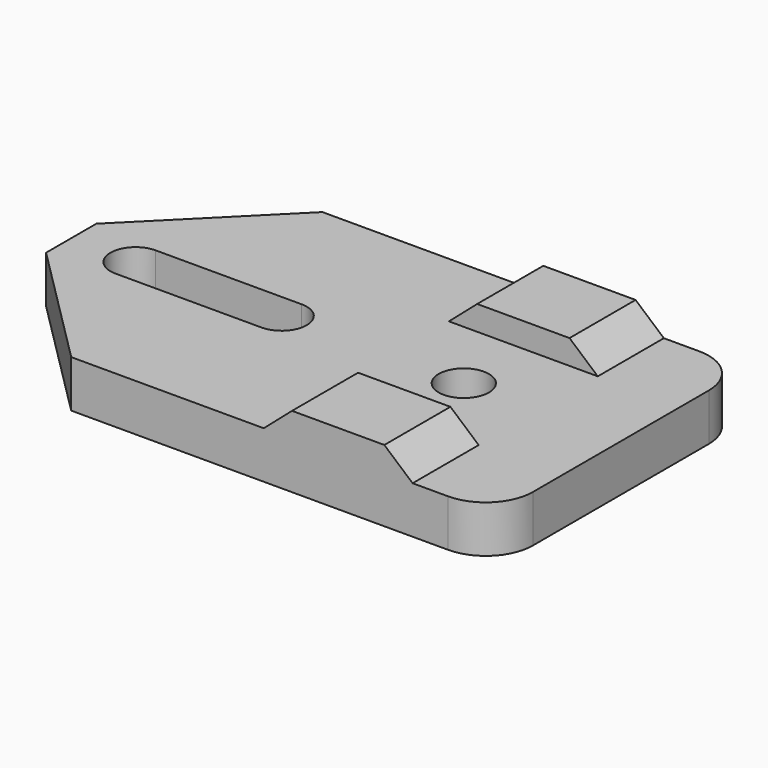
from build123d import *

# Parameters (mm, degrees)
SKETCH_R     = 1.6
PAD_DEPTH    = 3
PAD001_DEPTH = 20
SKETCH002_W  = 9.48
SKETCH002_H  = 9.48
POCKET_DEPTH = 1.56
CHAMFER_SIZE = 8
FILLET_R     = 3


with BuildPart() as part:
    # Sketch → Pad (new body)
    with BuildSketch(Plane.XY):
        Polygon((-10, 10), (10, 10), (10, -10), (-10, -10), (-25, -10), (-25, 10), align=None)
        Circle(SKETCH_R, mode=Mode.SUBTRACT)
        with BuildLine():
            ThreePointArc((-20.9, 1.6), (-22.5, 0), (-20.9, -1.6))
            Line((-20.9, -1.6), (-11.6, -1.6))
            ThreePointArc((-11.6, -1.6), (-10, 0), (-11.6, 1.6))
            Line((-11.6, 1.6), (-20.9, 1.6))
        make_face(mode=Mode.SUBTRACT)
    extrude(amount=PAD_DEPTH)

    # Sketch001 (on Face3 of Pad) → Pad001 (join)
    with BuildSketch(Plane.XZ.offset(10)):
        Polygon((-4.74, 3), (4.74, 3), (2.94, 4.56), (-2.94, 4.56), align=None)
    extrude(amount=-PAD001_DEPTH)

    # Sketch002 (on Face18 of Pad001) → Pocket (cut)
    with BuildSketch(Plane.XY.offset(4.56)):
        Rectangle(SKETCH002_W, SKETCH002_H)
    extrude(amount=-POCKET_DEPTH, mode=Mode.SUBTRACT)

    # Chamfer
    chamfer_edges = [part.edges().sort_by_distance(p)[0] for p in [
        (-25, 10, 1.5),
        (-25, -10, 1.5),
    ]]
    chamfer(chamfer_edges, length=CHAMFER_SIZE)

    # Fillet
    fillet_edges = [part.edges().sort_by_distance(p)[0] for p in [
        (10, 10, 1.5),
        (10, -10, 1.5),
    ]]
    fillet(fillet_edges, radius=FILLET_R)


solid = part.part
